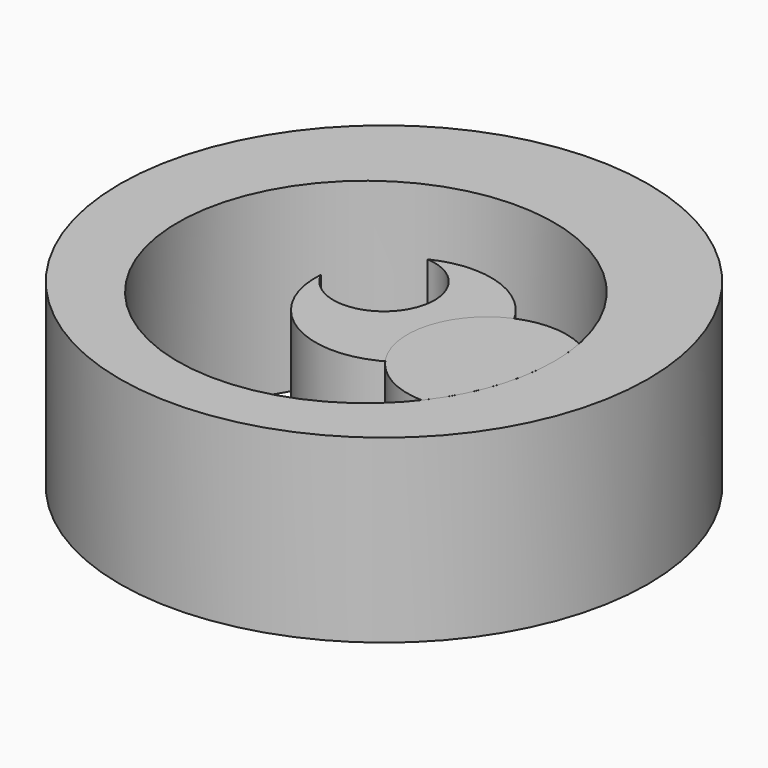
from build123d import *

# Parameters (mm, degrees)
F0_R     = 36.5880329935
F0_R_2   = 26.0597535875
F2_DEPTH = 25


with BuildPart() as f2:
    # F0 (on Top) → F2 (new body)
    with BuildSketch(Plane.XY):
        Circle(F0_R)
        with Locations((0, -3.1379330903)):
            Circle(F0_R_2, mode=Mode.SUBTRACT)
    extrude(amount=F2_DEPTH)


with BuildPart() as f2b:
    # F0 (on Top) → F2, piece 2 (new body)
    with BuildSketch(Plane.XY):
        with BuildLine():
            ThreePointArc((0.4154471066, 6.9919972632), (5.097575412, 4.8036805624), (7.0043288063, 0))
            ThreePointArc((7.0043288063, 0), (1.546341602, -6.8315042031), (-6.3215589318, -3.0163744294))
            ThreePointArc((-6.3215589318, -3.0163744294), (5.3627811466, -16.0681131443), (17.9756076154, -3.9112922186))
            ThreePointArc((17.9756076154, -3.9112922186), (12.2275946786, 6.4236117314), (0.4154471066, 6.9919972632))
        make_face()
    extrude(amount=F2_DEPTH)


with BuildPart() as f2c:
    # F1 (on face) → F2, piece 3 (new body)
    with BuildSketch(Plane.XY):
        with BuildLine():
            ThreePointArc((26.0597535875, -3.1379330903), (25.9406809612, -0.6495946263), (25.5845512192, 1.816004329))
            ThreePointArc((25.5845512192, 1.816004329), (10.0333502545, -5.5433353176), (20.5572056531, -19.1539267459))
            ThreePointArc((20.5572056531, -19.1539267459), (24.6457549165, -11.6053719969), (26.0597535875, -3.1379330903))
        make_face()
    extrude(amount=F2_DEPTH)


solid = Compound([f2.part, f2b.part, f2c.part])
